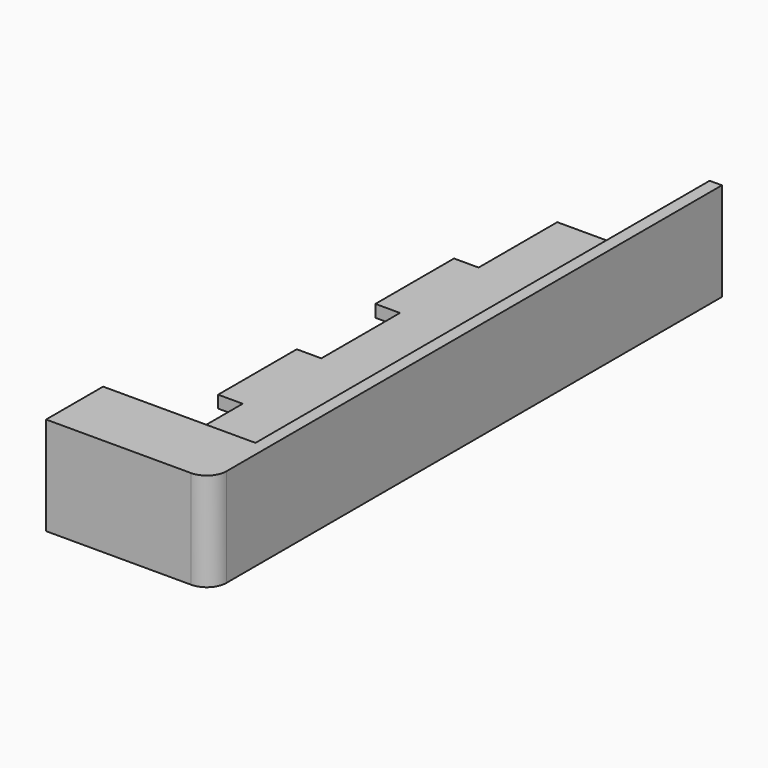
from build123d import *

# Parameters (mm, degrees)
F0_W      = 85.09
F0_H      = 165.1
F1_DEPTH  = 25.4
F2_W      = 39.37
F2_H      = 161.925
F3_DEPTH  = 22.225
F4_W      = 50.8
F4_H      = 5.08
F5_DEPTH  = 6.35
F7_DEPTH  = 25.401
F8_W      = 39.37
F8_H      = 15.24
F9_DEPTH  = 3.175
F10_W     = 6.35
F10_H     = 25.4
F11_DEPTH = 3.175
F12_R     = 5.08


with BuildPart() as f1:
    # F0 (on Top) → F1 (new body)
    with BuildSketch(Plane.XY):
        with Locations((-2.9836203903, 38.1636999707)):
            Rectangle(F0_W, F0_H)
    extrude(amount=F1_DEPTH)

    # F2 (on face) → F3 (cut)
    with BuildSketch(Plane.XY.offset(25.4)):
        with Locations((16.7013796097, 39.7511999707)):
            Rectangle(F2_W, F2_H)
    extrude(amount=-F3_DEPTH, mode=Mode.SUBTRACT)

    # F4 (on face) → F5 (join)
    with BuildSketch(Plane(origin=(36.3863796097, 0, 0), x_dir=(0, -1, 0), z_dir=(-1, 0, 0))):
        with Locations((-85.7886999707, 10.795)):
            Rectangle(F4_W, F4_H)
    extrude(amount=F5_DEPTH)

    # F6 (on face) → F7 (cut, through all)
    with BuildSketch(Plane.XY.offset(25.4)):
        Polygon((-2.9836203903, -41.2113000293), (-2.9836203903, 120.7136999707), (-45.5286203903, 120.7136999707), (-45.5286203903, -44.3863000293), (-2.9836203903, -44.3863000293), align=None)
    extrude(amount=-F7_DEPTH, mode=Mode.SUBTRACT)

    # F8 (on face) → F9 (join)
    with BuildSketch(Plane.XY.offset(25.4)):
        with Locations((16.7013796097, -33.5913000293)):
            Rectangle(F8_W, F8_H)
    extrude(amount=-F9_DEPTH)

    # F10 (on face) → F11 (join)
    with BuildSketch(Plane.XY.offset(3.175)):
        with Locations((-6.1586203903, 82.6136999707)):
            Rectangle(F10_W, F10_H)
        with Locations((-6.1586203903, 31.8136999707)):
            Rectangle(F10_W, F10_H)
        with Locations((-6.1586203903, -18.9863000293)):
            Rectangle(F10_W, F10_H)
    extrude(amount=-F11_DEPTH)

    # F12
    f12_edges = [f1.edges().sort_by_distance(p)[0] for p in [
        (39.56138, -44.3863, 12.7),
    ]]
    fillet(f12_edges, radius=F12_R)


solid = f1.part
